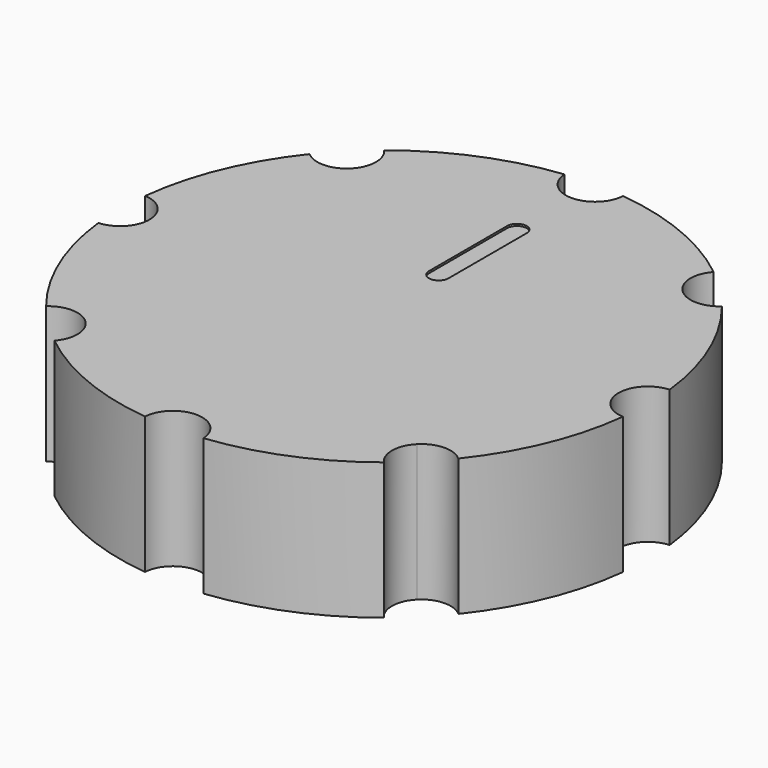
from build123d import *

# Parameters (mm, degrees)
F0_R     = 13.5
F1_DEPTH = 7
F2_W     = 9.5
F2_H     = 9.5
F3_DEPTH = 4.5
F4_R     = 1.5
F5_DEPTH = 25.4
F8_DEPTH = 0.1


with BuildPart() as f1:
    # F0 (on Top) → F1 (new body)
    with BuildSketch(Plane.XY):
        Circle(F0_R)
    extrude(amount=F1_DEPTH)

    # F2 (on Top) → F3 (cut)
    with BuildSketch(Plane.XY):
        Rectangle(F2_W, F2_H)
    extrude(amount=F3_DEPTH, mode=Mode.SUBTRACT)

    # F4 (on Top) → F5 (cut)
    with BuildSketch(Plane.XY):
        with Locations((13.5, 0)):
            Circle(F4_R)
        with Locations((-13.5, 0)):
            Circle(F4_R)
        with Locations((0, -13.5)):
            Circle(F4_R)
        with Locations((0, 13.5)):
            Circle(F4_R)
        with BuildLine():
            ThreePointArc((-8.045941546, 9.545941546), (-8.9719163975, 10.9317608448), (-10.6066017178, 10.6066017178))
            Line((-10.6066017178, 10.6066017178), (-8.4852813742, 8.4852813742))
            ThreePointArc((-8.4852813742, 8.4852813742), (-8.1601222473, 8.9719163975), (-8.045941546, 9.545941546))
        make_face()
        with BuildLine():
            ThreePointArc((10.6066017178, 10.6066017178), (8.4852813742, 10.6066017178), (8.4852813742, 8.4852813742))
            Line((8.4852813742, 8.4852813742), (10.6066017178, 10.6066017178))
        make_face()
        with BuildLine():
            Line((10.6066017178, 10.6066017178), (8.4852813742, 8.4852813742))
            ThreePointArc((8.4852813742, 8.4852813742), (10.1199666946, 8.1601222473), (11.045941546, 9.545941546))
            ThreePointArc((11.045941546, 9.545941546), (10.9317608448, 10.1199666946), (10.6066017178, 10.6066017178))
        make_face()
        with BuildLine():
            ThreePointArc((11.045941546, -9.545941546), (10.1199666946, -8.1601222473), (8.4852813742, -8.4852813742))
            Line((8.4852813742, -8.4852813742), (10.6066017178, -10.6066017178))
            ThreePointArc((10.6066017178, -10.6066017178), (10.9317608448, -10.1199666946), (11.045941546, -9.545941546))
        make_face()
        with BuildLine():
            Line((10.6066017178, -10.6066017178), (8.4852813742, -8.4852813742))
            ThreePointArc((8.4852813742, -8.4852813742), (8.4852813742, -10.6066017178), (10.6066017178, -10.6066017178))
        make_face()
        with BuildLine():
            ThreePointArc((-8.045941546, -9.545941546), (-8.1601222473, -8.9719163975), (-8.4852813742, -8.4852813742))
            Line((-8.4852813742, -8.4852813742), (-10.6066017178, -10.6066017178))
            ThreePointArc((-10.6066017178, -10.6066017178), (-8.9719163975, -10.9317608448), (-8.045941546, -9.545941546))
        make_face()
        with BuildLine():
            Line((-10.6066017178, -10.6066017178), (-8.4852813742, -8.4852813742))
            ThreePointArc((-8.4852813742, -8.4852813742), (-10.6066017178, -8.4852813742), (-10.6066017178, -10.6066017178))
        make_face()
        with BuildLine():
            Line((-8.4852813742, 8.4852813742), (-10.6066017178, 10.6066017178))
            ThreePointArc((-10.6066017178, 10.6066017178), (-10.6066017178, 8.4852813742), (-8.4852813742, 8.4852813742))
        make_face()
    extrude(amount=F5_DEPTH, mode=Mode.SUBTRACT)

    # F7 (on offset) → F8 (cut)
    with BuildSketch(Plane.XY.offset(7)):
        with BuildLine():
            ThreePointArc((-0.5, 8.5), (0, 8), (0.5, 8.5))
            Line((0.5, 8.5), (-0.5, 8.5))
        make_face()
        with BuildLine():
            Line((-0.5, 8.5), (0.5, 8.5))
            ThreePointArc((0.5, 8.5), (0, 9), (-0.5, 8.5))
        make_face()
        with BuildLine():
            Line((0.5, 3.5), (0.5, 8.5))
            ThreePointArc((0.5, 8.5), (0, 8), (-0.5, 8.5))
            Line((-0.5, 8.5), (-0.5, 3.5))
            ThreePointArc((-0.5, 3.5), (0, 4), (0.5, 3.5))
        make_face()
        with BuildLine():
            ThreePointArc((-0.5, 3.5), (0, 3), (0.5, 3.5))
            Line((0.5, 3.5), (-0.5, 3.5))
        make_face()
        with BuildLine():
            Line((-0.5, 3.5), (0.5, 3.5))
            ThreePointArc((0.5, 3.5), (0, 4), (-0.5, 3.5))
        make_face()
    extrude(amount=-F8_DEPTH, mode=Mode.SUBTRACT)


solid = f1.part
